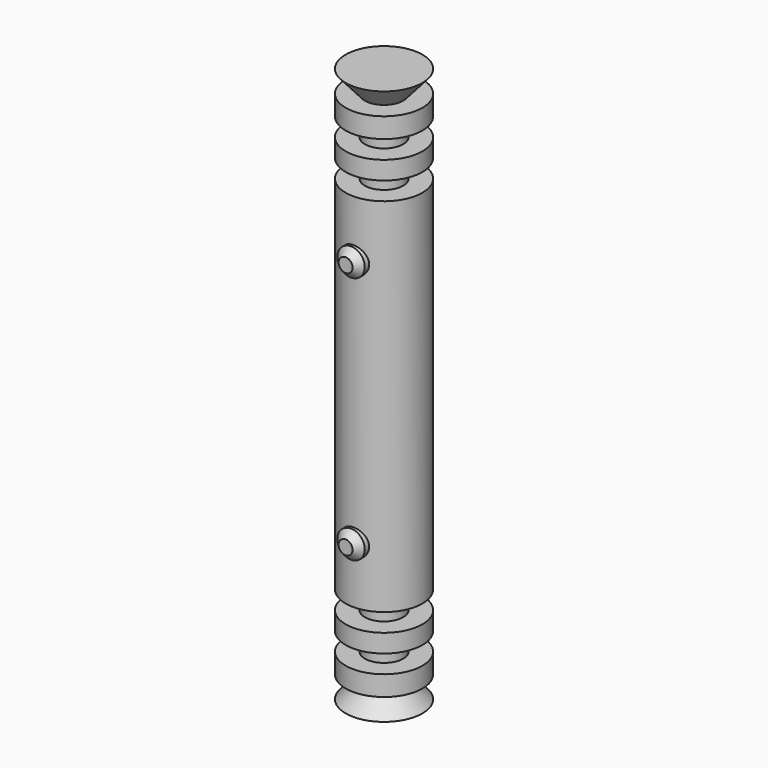
from build123d import *

# Parameters (mm, degrees)
F2_R     = 10.323596
F3_DEPTH = 36.068
F4_SIZE  = 5.08


with BuildPart() as f1:
    # F0 (on Front) → F1 (revolve)
    with BuildSketch(Plane.XZ):
        Polygon((0, 208.260372), (0, 0), (28.794192, 0), (28.794192, 135.701105), (14.397096, 135.701105), (14.397096, 149.391532), (28.794192, 149.391532), (28.794192, 163.081944), (14.397096, 163.081944), (14.397096, 176.772371), (28.794192, 176.772371), (28.794192, 191.831857), (14.397096, 191.831857), (28.794192, 208.260372), align=None)
        Polygon((28.794192, 0), (0, 0), (0, -208.260372), (28.794192, -208.260372), (14.397096, -191.831857), (28.794192, -191.831857), (28.794192, -176.772371), (14.397096, -176.772371), (14.397096, -163.081944), (28.794192, -163.081944), (28.794192, -149.391532), (14.397096, -149.391532), (14.397096, -135.701105), (28.794192, -135.701105), align=None)
    revolve(axis=Axis((0, 0, -104.130186), (0, 0, -1)))

    # F2 (on Front) → F3 (join)
    with BuildSketch(Plane.XZ):
        with Locations((0, 93.211494)):
            Circle(F2_R)
        with Locations((0, -93.211494)):
            Circle(F2_R)
    extrude(amount=F3_DEPTH)

    # F4
    f4_edges = [f1.edges().sort_by_distance(p)[0] for p in [
        (-10.323596, -36.068, 93.211494),
        (-10.323596, -36.068, -93.211494),
    ]]
    chamfer(f4_edges, length=F4_SIZE)


solid = f1.part
